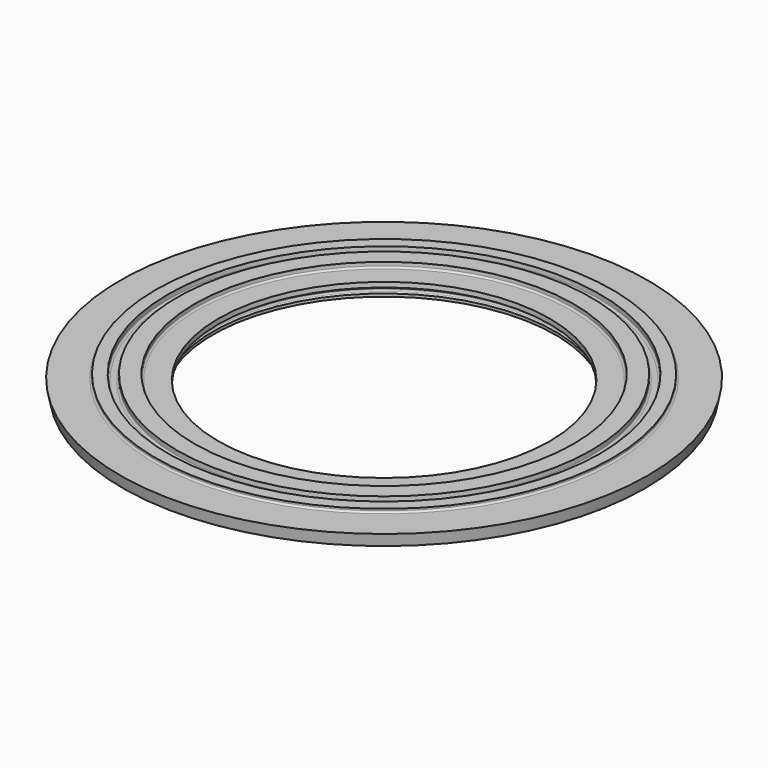
from build123d import *


with BuildPart() as f1:
    # F0 (on Front) → F1 (revolve)
    with BuildSketch(Plane.XZ):
        with BuildLine():
            Line((13.589, 0), (12.0015, 0))
            Line((12.0015, 0), (12.0015, -0.3556))
            Line((12.0015, -0.3556), (12.2555, -0.3556))
            ThreePointArc((12.2555, -0.3556), (12.345303, -0.392797), (12.3825, -0.4826))
            Line((12.3825, -0.4826), (12.3825, -0.5842))
            Line((12.3825, -0.5842), (12.470497, -0.672197))
            ThreePointArc((12.470497, -0.672197), (12.507695, -0.762), (12.470497, -0.851803))
            Line((12.470497, -0.851803), (12.3825, -0.9398))
            Line((12.3825, -0.9398), (12.3825, -1.143))
            Line((12.3825, -1.143), (12.7635, -1.143))
            Line((12.7635, -1.143), (18.923, -0.7366))
            Line((18.923, -0.7366), (19.1008, 0.127))
            Line((19.1008, 0.127), (16.637, 0.127))
            ThreePointArc((16.637, 0.127), (16.547197, 0.164197), (16.51, 0.254))
            Line((16.51, 0.254), (16.51, 0.381))
            Line((16.51, 0.381), (15.621, 0.381))
            Line((15.621, 0.381), (15.621, 0.0635))
            ThreePointArc((15.621, 0.0635), (15.583803, -0.026303), (15.494, -0.0635))
            Line((15.494, -0.0635), (15.113, -0.0635))
            ThreePointArc((15.113, -0.0635), (15.023197, -0.026303), (14.986, 0.0635))
            Line((14.986, 0.0635), (14.986, 0.381))
            Line((14.986, 0.381), (13.716, 0.381))
            Line((13.716, 0.381), (13.716, 0.127))
            ThreePointArc((13.716, 0.127), (13.678803, 0.037197), (13.589, 0))
        make_face()
    revolve(axis=Axis((0, 0, 1.228904), (0, 0, 1)))


solid = f1.part
